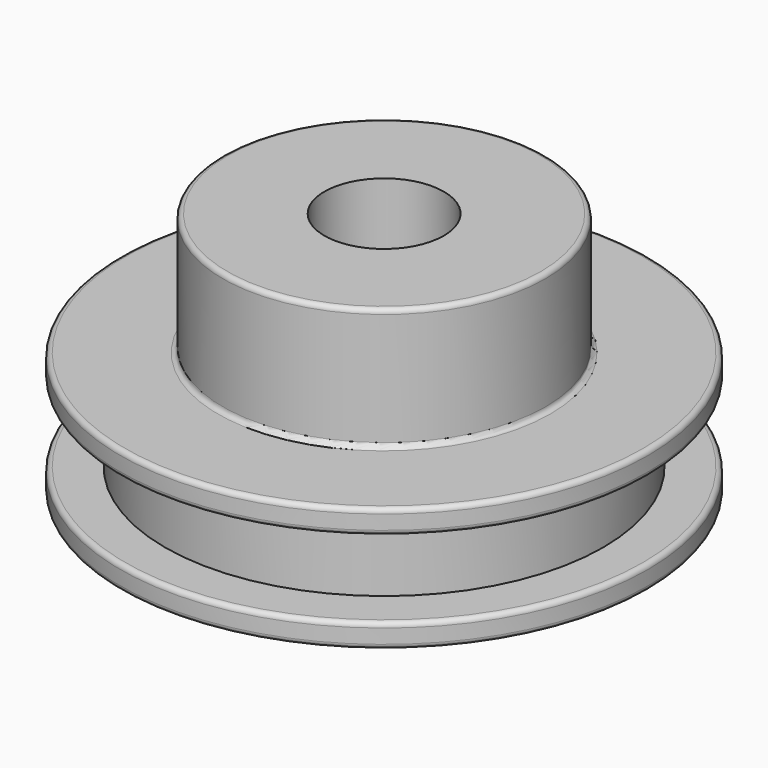
from build123d import *

# Parameters (mm, degrees)
F2_R = 0.254


with BuildPart() as f1:
    # F0 (on Front) → F1 (revolve)
    with BuildSketch(Plane.XZ):
        Polygon((3.175, 13.1064), (3.175, 0), (14.0335, 0), (14.0335, 1.27), (11.6459, 1.27), (11.6459, 5.334), (14.0335, 5.334), (14.0335, 6.604), (8.5852, 6.604), (8.5852, 13.1064), align=None)
    revolve(axis=Axis((0, 0, -0.744609), (0, 0, -1)))

    # F2
    f2_edges = [f1.edges().sort_by_distance(p)[0] for p in [
        (-8.5852, 0, 13.1064),
        (-14.0335, 0, 5.334),
        (-14.0335, 0, 6.604),
        (14.0335, 0, 5.969),
        (-14.0335, 0, 0),
        (-14.0335, 0, 1.27),
        (14.0335, 0, 0.635),
        (-8.5852, 0, 6.604),
    ]]
    fillet(f2_edges, radius=F2_R)


solid = f1.part
